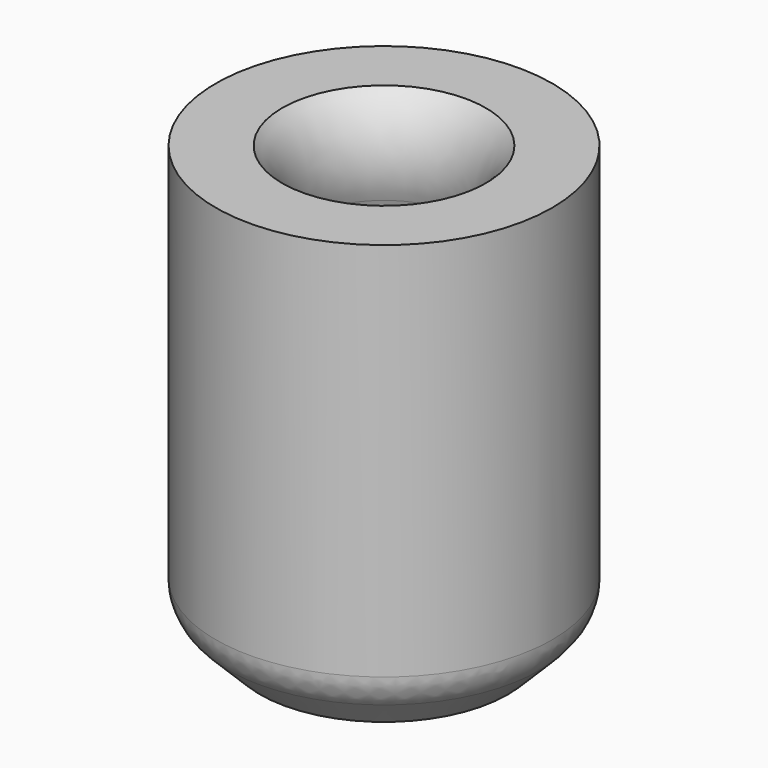
from build123d import *

# Parameters (mm, degrees)
SKETCH028_R     = 3.8
PAD007_DEPTH    = 10
CHAMFER003_SIZE = 1
FILLET008_R     = 1


with BuildPart() as part:
    # Sketch028 → Pad007 (new body)
    with BuildSketch(Plane.XY):
        Circle(SKETCH028_R)
    extrude(amount=PAD007_DEPTH)

    # Sketch029 → Groove002 (revolve, cut)
    with BuildSketch(Plane.XZ):
        with BuildLine():
            Line((-2.3, 10), (0, 10))
            Line((0, 1.6), (0, 10))
            Line((0, 1.6), (-2.3, 1.6))
            ThreePointArc((-2.3, 1.6), (-1.741466, 2.552438), (-1.85, 3.651219))
            ThreePointArc((-1.85, 5.08374), (-2, 4.367479), (-1.85, 3.651219))
            ThreePointArc((-1.85, 5.08374), (-1.7, 5.8), (-1.85, 6.51626))
            ThreePointArc((-1.85, 7.948781), (-2, 7.232521), (-1.85, 6.51626))
            ThreePointArc((-1.85, 7.948781), (-1.741466, 9.047562), (-2.3, 10))
        make_face()
    revolve(axis=Axis((0, 0, 0), (0, 0, 1)), mode=Mode.SUBTRACT)

    # Chamfer003
    chamfer003_edges = [part.edges().sort_by_distance(p)[0] for p in [
        (-3.8, 0, 0),
    ]]
    chamfer(chamfer003_edges, length=CHAMFER003_SIZE)

    # Fillet008
    fillet008_edges = [part.edges().sort_by_distance(p)[0] for p in [
        (-3.8, 0, 1),
    ]]
    fillet(fillet008_edges, radius=FILLET008_R)


solid = part.part
